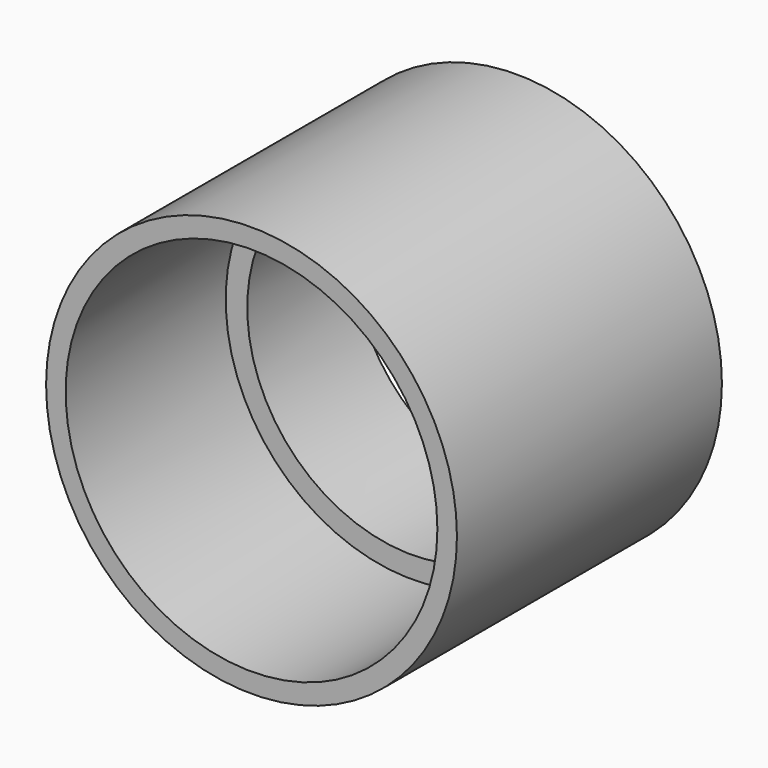
from build123d import *

# Parameters (mm, degrees)
F0_R     = 25
F0_R_2   = 20
F1_DEPTH = 40.306684
F2_R     = 22.619437
F3_DEPTH = 24.349418


with BuildPart() as f1:
    # F0 (on Front) → F1 (new body)
    with BuildSketch(Plane.XZ):
        Circle(F0_R)
        Circle(F0_R_2, mode=Mode.SUBTRACT)
    extrude(amount=F1_DEPTH)

    # F2 (on face) → F3 (cut)
    with BuildSketch(Plane.XZ.offset(40.306684)):
        Circle(F2_R)
    extrude(amount=-F3_DEPTH, mode=Mode.SUBTRACT)


solid = f1.part
